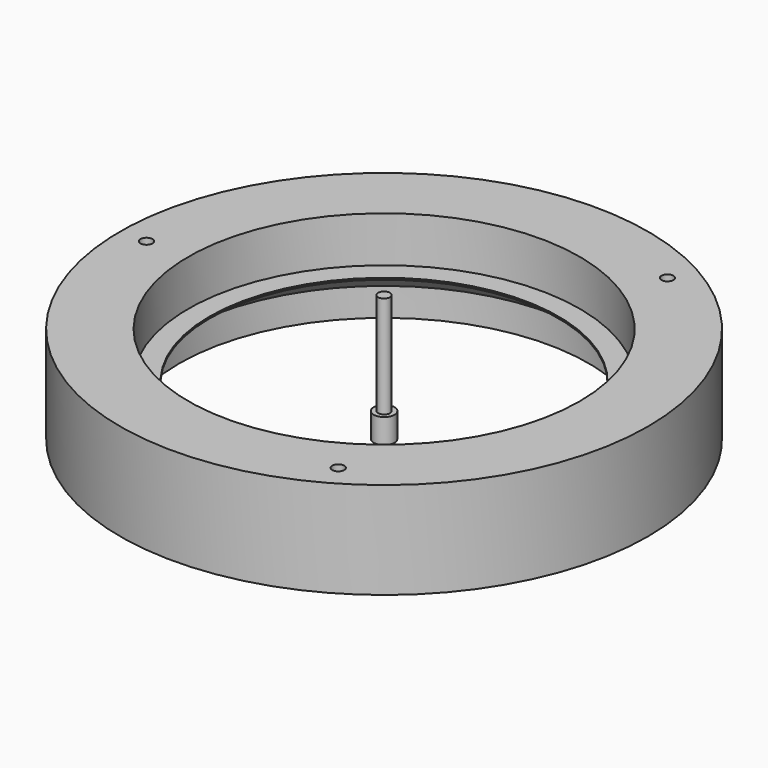
from build123d import *

# Parameters (mm, degrees)
CYLINDER_R               = 2.95
CYLINDER_DEPTH           = 7
CYLINDER001_R            = 1.7
CYLINDER001_DEPTH        = 30
CLONE393_PLACEMENT_ANGLE = 180
ARRAY021_COUNT           = 3


with BuildPart() as m3bolthead:
    # Cylinder → Cylinder (new body)
    with BuildSketch(Plane.XY):
        Circle(CYLINDER_R)
    extrude(amount=CYLINDER_DEPTH)


with BuildPart() as m3bolt:
    # Cylinder001 → Cylinder001 (new body)
    with BuildSketch(Plane.XY.offset(6)):
        Circle(CYLINDER001_R)
    extrude(amount=CYLINDER001_DEPTH)

    # Fusion: union M3BoltHead
    add(m3bolthead.part)


with BuildPart() as array021:
    # Clone393 base: copy of M3Bolt
    add(m3bolt.part)


with BuildPart() as array021_1:
    # Clone393 placement: moved
    add(array021.part.moved(Location((-67.5, 0, 35))).rotate(Axis((-67.5, 0, 35), (0, 1, 0)), CLONE393_PLACEMENT_ANGLE))

    # Array021: Array021 ×3 about axis
    array021_axis = Axis((0, 0, 0), (0, 0, 1))


with BuildPart() as array021_2:
    add(array021_1.part)
    for i in range(1, ARRAY021_COUNT):
        add(array021_1.part.rotate(array021_axis, i * 360 / ARRAY021_COUNT))


with BuildPart() as basetop:
    # Sketch076 → Revolution021 (revolve)
    with BuildSketch(Plane.XZ):
        Polygon((58.168888, 0), (58.168888, 8), (49.6, 14), (49.6, 14.5), (55.6, 14.5), (55.6, 27.5), (75, 27.5), (75, 0), align=None)
    revolve(axis=Axis((0, 0, 0), (0, 0, 1)))

    # Cut128: cut Array021
    add(array021_2.part, mode=Mode.SUBTRACT)


solid = Compound([m3bolt.part, basetop.part])
